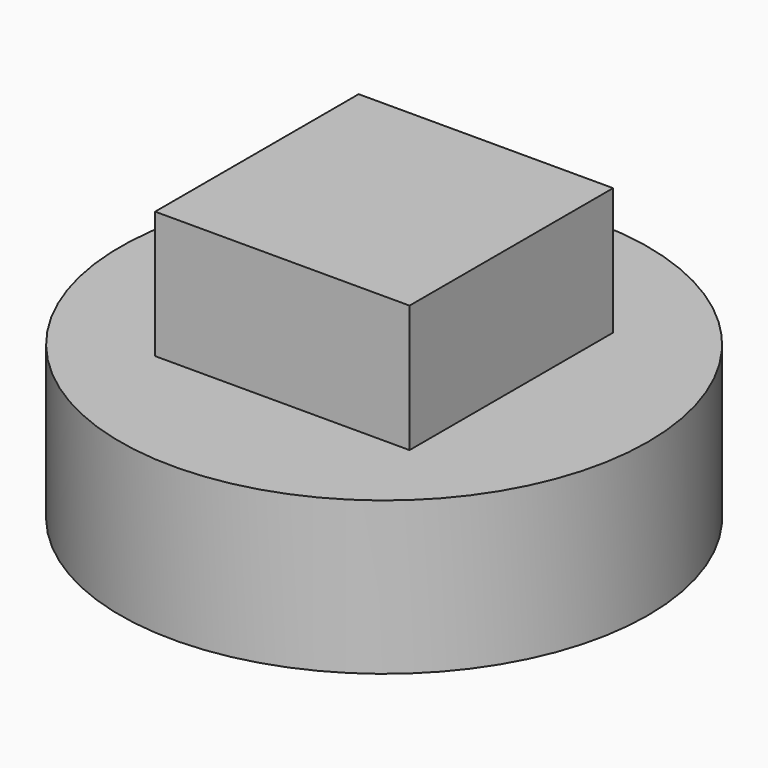
from build123d import *

# Parameters (mm, degrees)
SKETCH_W     = 10
SKETCH_H     = 10
PAD_DEPTH    = 5
SKETCH001_R  = 10.375
PAD001_DEPTH = 6


with BuildPart() as part:
    # Sketch → Pad (new body)
    with BuildSketch(Plane.XY.offset(6)):
        Rectangle(SKETCH_W, SKETCH_H)
    extrude(amount=PAD_DEPTH)

    # Sketch001 → Pad001 (join)
    with BuildSketch(Plane.XY):
        Circle(SKETCH001_R)
    extrude(amount=PAD001_DEPTH)


solid = part.part
